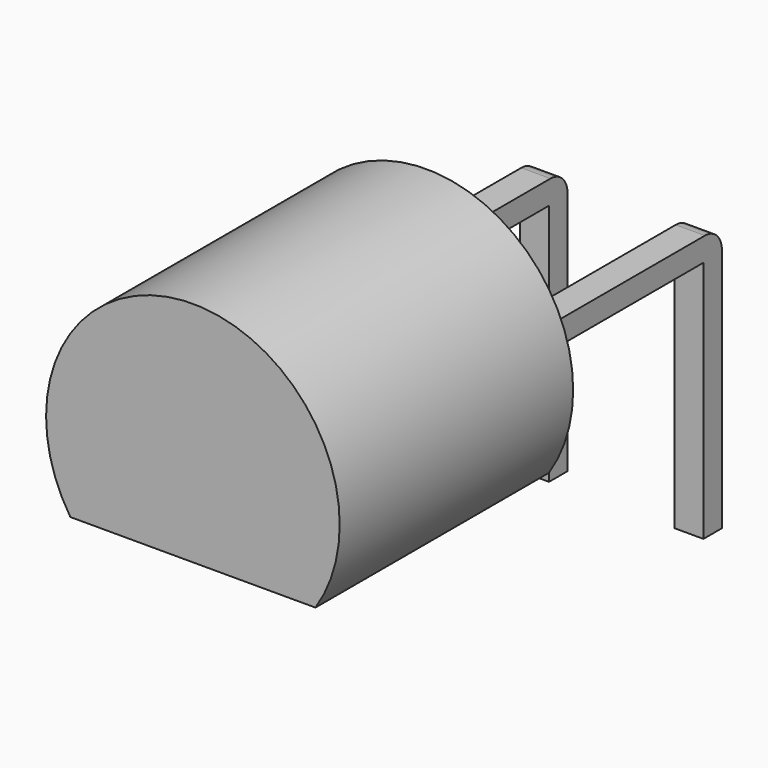
from build123d import *

# Parameters (mm, degrees)
PAD_DEPTH    = 4.8
SKETCH002_W  = 0.48
SKETCH002_H  = 4.3
PAD002_DEPTH = 0.38
FILLET_R     = 0.35
SKETCH001_W  = 0.48
SKETCH001_H  = 0.38
PAD001_DEPTH = 4


with BuildPart() as pad:
    # Sketch → Pad (new body)
    with BuildSketch(Plane(origin=(0, -4, 1.4), x_dir=(1, 0, 0), z_dir=(0, -1, 0))):
        with BuildLine():
            Line((-0.745769, -1.33), (3.285769, -1.33))
            ThreePointArc((3.285769, -1.33), (1.27, 2.415), (-0.745769, -1.33))
        make_face()
    extrude(amount=PAD_DEPTH)


with BuildPart() as fillet_body:
    # Sketch002 → Pad002 (new body)
    with BuildSketch(Plane.XY.offset(1.4)):
        with Locations((2.54, -1.96)):
            Rectangle(SKETCH002_W, SKETCH002_H)
        with Locations((0, -1.96)):
            Rectangle(SKETCH002_W, SKETCH002_H)
    extrude(amount=PAD002_DEPTH)

    # Fillet
    fillet_edges = [fillet_body.edges().sort_by_distance(p)[0] for p in [
        (2.54, 0.19, 1.78),
        (0, 0.19, 1.78),
    ]]
    fillet(fillet_edges, radius=FILLET_R)


with BuildPart() as obj1:
    # Sketch001 → Pad001 (new body)
    with BuildSketch(Plane.XY.offset(1.4)):
        Rectangle(SKETCH001_W, SKETCH001_H)
        with Locations((2.54, 0)):
            Rectangle(SKETCH001_W, SKETCH001_H)
    extrude(amount=-PAD001_DEPTH)

    add(pad.part)
    add(fillet_body.part)


solid = obj1.part
